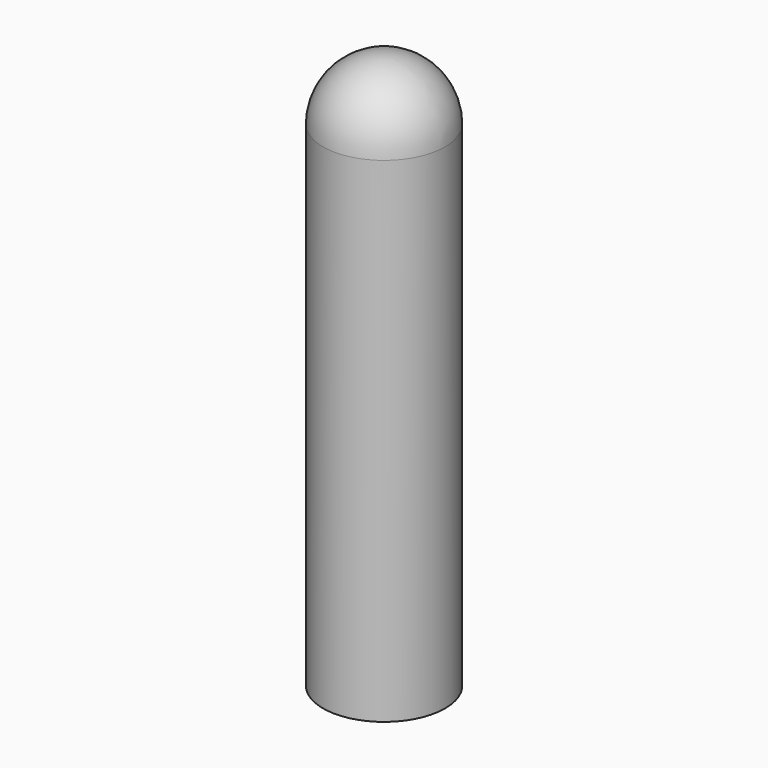
from build123d import *

# Parameters (mm, degrees)
F0_R     = 11
F1_DEPTH = 50
F2_R     = 11
F3_T     = -2


with BuildPart() as f1:
    # F0 (on Top) → F1 (new body, symmetric)
    with BuildSketch(Plane.XY):
        Circle(F0_R)
    extrude(amount=F1_DEPTH, both=True)

    # F2
    f2_edges = [f1.edges().sort_by_distance(p)[0] for p in [
        (-11, 0, 50),
    ]]
    fillet(f2_edges, radius=F2_R)

    # F3
    f3_openings = [f1.faces().sort_by_distance(p)[0] for p in [
        (0, 0, -50),
    ]]
    offset(amount=F3_T, openings=f3_openings)


solid = f1.part
